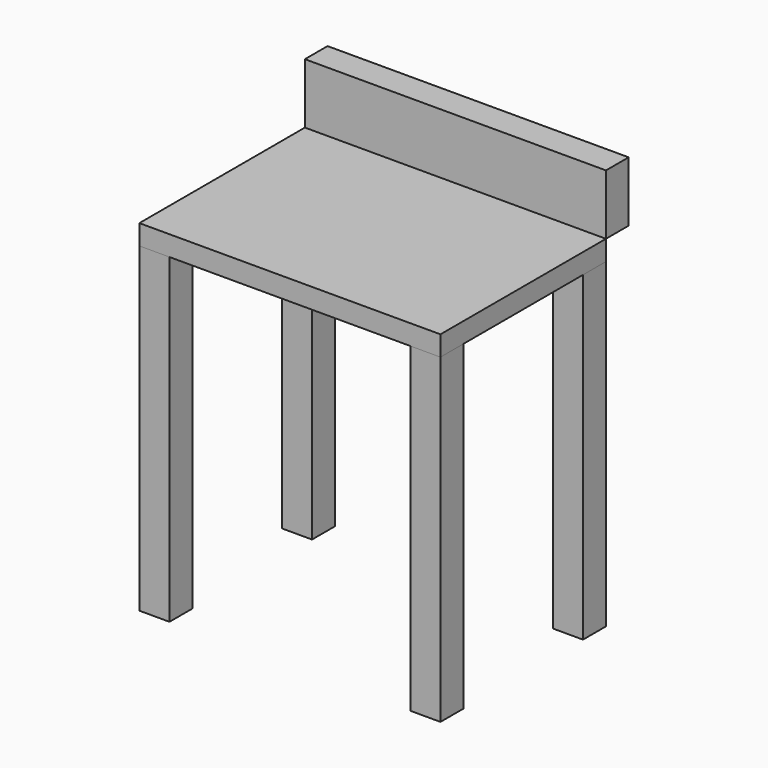
from build123d import *

# Parameters (mm, degrees)
F1_DEPTH = 406.4
F2_W     = 381
F2_H     = 261.814931
F3_DEPTH = 25.4
F4_W     = 381
F4_H     = 35.888812
F5_DEPTH = 76.2


with BuildPart() as f1:
    # F0 (on Top) → F1 (new body)
    with BuildSketch(Plane.XY):
        Polygon((0, 36.33377), (0, 0), (38.1, 0), (38.1, 3.907465), (38.1, 36.33377), align=None)
        Polygon((38.1, 225.48116), (38.1, 257.907465), (38.1, 261.814931), (0, 261.814931), (0, 225.48116), align=None)
        Polygon((342.9, 261.814931), (342.9, 257.907465), (342.9, 225.48116), (381, 225.48116), (381, 261.814931), align=None)
        Polygon((342.9, 3.907465), (342.9, 0), (381, 0), (381, 36.33377), (342.9, 36.33377), align=None)
    extrude(amount=F1_DEPTH)


with BuildPart() as f3:
    # F2 (on face) → F3 (new body)
    with BuildSketch(Plane.XY.offset(406.4)):
        with Locations((190.5, 130.907466)):
            Rectangle(F2_W, F2_H)
    extrude(amount=F3_DEPTH)


with BuildPart() as f5:
    # F4 (on face) → F5 (new body)
    with BuildSketch(Plane.XY.offset(431.8)):
        with Locations((190.5, 279.759337)):
            Rectangle(F4_W, F4_H)
    extrude(amount=F5_DEPTH)


solid = Compound([f1.part, f3.part, f5.part])
